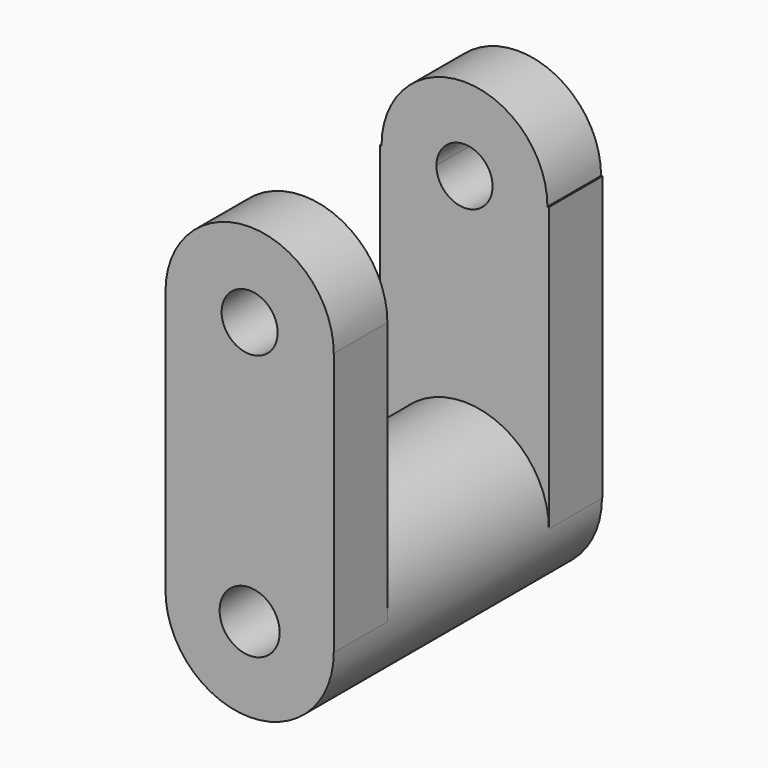
from build123d import *

# Parameters (mm, degrees)
F0_R     = 19.1183329558
F0_R_2   = 6.8278686451
F1_DEPTH = 76.2
F3_DEPTH = 15.24
F5_DEPTH = 15.24


with BuildPart() as f1:
    # F0 (on Front) → F1 (new body)
    with BuildSketch(Plane.XZ):
        Circle(F0_R)
        Circle(F0_R_2, mode=Mode.SUBTRACT)
    extrude(amount=-F1_DEPTH)

    # F2 (on Front) → F3 (join)
    with BuildSketch(Plane.XZ):
        with BuildLine():
            ThreePointArc((-6.364259504, 59.8609298468), (0, 66.2251893508), (6.364259504, 59.8609298468))
            Line((6.364259504, 59.8609298468), (19.1183329558, 59.8609298468))
            ThreePointArc((19.1183329558, 59.8609298468), (0, 78.9792628025), (-19.1183329558, 59.8609298468))
            Line((-19.1183329558, 59.8609298468), (-6.364259504, 59.8609298468))
        make_face()
        with BuildLine():
            Line((19.1183329558, 59.8609298468), (6.364259504, 59.8609298468))
            ThreePointArc((6.364259504, 59.8609298468), (0, 53.4966703428), (-6.364259504, 59.8609298468))
            Line((-6.364259504, 59.8609298468), (-19.1183329558, 59.8609298468))
            ThreePointArc((-19.1183329558, 59.8609298468), (0, 40.742596891), (19.1183329558, 59.8609298468))
        make_face()
        with BuildLine():
            Line((19.1183329558, 0), (19.1183329558, 59.8609298468))
            ThreePointArc((19.1183329558, 59.8609298468), (0, 40.742596891), (-19.1183329558, 59.8609298468))
            Line((-19.1183329558, 59.8609298468), (-19.1183329558, 0))
            ThreePointArc((-19.1183329558, 0), (0, 19.1183329558), (19.1183329558, 0))
        make_face()
    extrude(amount=-F3_DEPTH)


with BuildPart() as f5:
    # F4 (on face) → F5 (new body)
    with BuildSketch(Plane(origin=(0, 76.2, 0), x_dir=(-1, 0, 0), z_dir=(0, 1, 0))):
        with BuildLine():
            Line((19.1183329558, 0), (19.1183329558, 64.3630325794))
            Line((19.1183329558, 64.3630325794), (18.7928472869, 64.3630325794))
            ThreePointArc((18.7928472869, 64.3630325794), (-0.0565509779, 45.5136343147), (-18.9059492426, 64.3630325794))
            Line((-18.9059492426, 64.3630325794), (-19.2314349115, 64.3630325794))
            Line((-19.2314349115, 64.3630325794), (-19.2314349115, 0))
            ThreePointArc((-19.2314349115, 0), (-0.0565509779, 19.1748839336), (19.1183329558, 0))
        make_face()
        with BuildLine():
            ThreePointArc((-18.9059492426, 64.3630325794), (-0.0565509779, 45.5136343147), (18.7928472869, 64.3630325794))
            Line((18.7928472869, 64.3630325794), (6.3202523649, 64.3630325794))
            ThreePointArc((6.3202523649, 64.3630325794), (-0.0565509779, 57.9862292367), (-6.4333543206, 64.3630325794))
            Line((-6.4333543206, 64.3630325794), (-18.9059492426, 64.3630325794))
        make_face()
        with BuildLine():
            Line((6.3202523649, 64.3630325794), (18.7928472869, 64.3630325794))
            ThreePointArc((18.7928472869, 64.3630325794), (-0.0565509779, 83.2124308442), (-18.9059492426, 64.3630325794))
            Line((-18.9059492426, 64.3630325794), (-6.4333543206, 64.3630325794))
            ThreePointArc((-6.4333543206, 64.3630325794), (-0.0565509779, 70.7398359221), (6.3202523649, 64.3630325794))
        make_face()
    extrude(amount=-F5_DEPTH)


solid = Compound([f1.part, f5.part])
